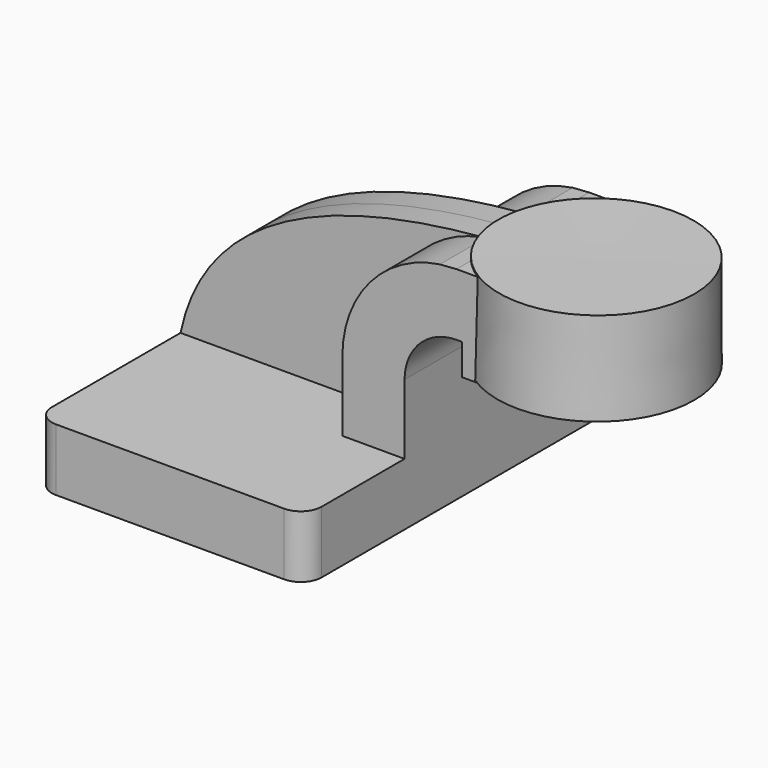
from build123d import *

# Parameters (mm, degrees)
F1_DEPTH = 63.5
F2_DEPTH = 25.4
F3_DEPTH = 7.9375
F5_R     = 6.35


with BuildPart() as f1:
    # F0 (on Front) → F1 (new body, symmetric)
    with BuildSketch(Plane.XZ):
        Polygon((22.225, 9.525), (-41.275, 9.525), (-41.275, -9.525), (41.275, -9.525), (41.275, 9.525), align=None)
    extrude(amount=F1_DEPTH, both=True)

    # F0 (on Front) → F2 (join, symmetric)
    with BuildSketch(Plane.XZ):
        with BuildLine():
            Line((22.225, 30.8886063695), (22.225, 9.525))
            Line((22.225, 9.525), (41.275, 9.525))
            Line((41.275, 9.525), (41.275, 30.8886063695))
            ThreePointArc((41.275, 30.8886063695), (45.9246798487, 42.1139265208), (57.15, 46.7636063695))
            Line((57.15, 46.7636063695), (58.8163197305, 46.7636063695))
            Line((58.8163197305, 46.7636063695), (58.8163197305, 65.8136063695))
            Line((58.8163197305, 65.8136063695), (57.15, 65.8136063695))
            add(Edge.make_bspline(
                [(52.0489083349, 65.4390693016), (53.7508813718, 65.5794651146), (55.4520089295, 65.7039665401), (57.15, 65.8136063695)],
                knots=[109.0031117585, 109.0031117585, 109.0031117585, 109.0031117585, 113.3838076271, 113.3838076271, 113.3838076271, 113.3838076271], degree=3))
            ThreePointArc((52.0489083349, 65.4390693016), (30.7122310756, 53.7096492751), (22.225, 30.8886063695))
        make_face()
        Polygon((79.6208217113, 65.8136063695), (58.8163197305, 65.8136063695), (58.8163197305, 46.7636063695), (58.8163197305, 37.2386063695), (79.3484657375, 37.2386063695), align=None)
    extrude(amount=F2_DEPTH, both=True)

    # F0 (on Front) → F3 (join, symmetric)
    with BuildSketch(Plane.XZ):
        with BuildLine():
            add(Edge.make_bspline(
                [(-41.275, 9.525), (-33.1736003349, 48.6113302876), (9.6993906508, 61.9456561664), (52.0489083349, 65.4390693016)],
                knots=[0, 0, 0, 0, 109.0031117585, 109.0031117585, 109.0031117585, 109.0031117585], degree=3))
            Line((-41.275, 9.525), (22.225, 9.525))
            Line((22.225, 9.525), (22.225, 30.8886063695))
            ThreePointArc((22.225, 30.8886063695), (30.7122310756, 53.7096492751), (52.0489083349, 65.4390693016))
        make_face()
    extrude(amount=F3_DEPTH, both=True)

    # F0 (on Front) → F4 (revolve)
    with BuildSketch(Plane.XZ):
        Polygon((109.6163197305, 65.8136063695), (79.6208217113, 65.8136063695), (79.3484657375, 37.2386063695), (109.6163197305, 37.2386063695), align=None)
    revolve(axis=Axis((79.4846437244, 0, 51.5261063695), (0.0095308348, 0, 0.9999545806)))

    # F5
    f5_edges = [f1.edges().sort_by_distance(p)[0] for p in [
        (-41.275, -63.5, 0),
        (41.275, -63.5, 0),
        (41.275, 63.5, 0),
        (-41.275, 63.5, 0),
    ]]
    fillet(f5_edges, radius=F5_R)


solid = f1.part
